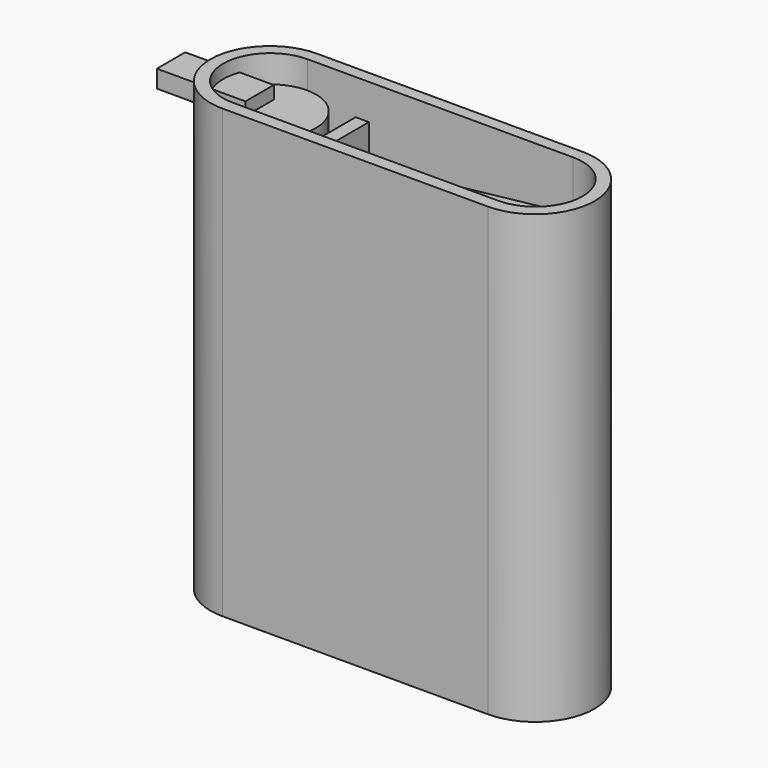
from build123d import *

# Parameters (mm, degrees)
SKETCH003_R     = 5.13266
PAD002_DEPTH    = 44.5
SKETCH004_W     = 26
SKETCH004_H     = 1.6
PAD003_DEPTH    = 46
SKETCH002_W     = 26.5
SKETCH002_H     = 1.6
PAD001_DEPTH    = 46
SKETCH006_W     = 15
SKETCH006_H     = 9
PAD005_DEPTH    = 6.2
SKETCH008_W     = 4.006802
SKETCH008_H     = 1.988987
PAD006_DEPTH    = 10
PAD_DEPTH       = 50.5
POCKET_DEPTH    = 49
SKETCH005_W     = 1.5
SKETCH005_H     = 10.6
PAD004_DEPTH    = 45
POCKET001_DEPTH = 0.1


with BuildPart() as pad002:
    # Sketch003 → Pad002 (new body)
    with BuildSketch(Plane.XY.offset(3)):
        with Locations((-28.836864, 7.153081)):
            Circle(SKETCH003_R)
    extrude(amount=PAD002_DEPTH)


with BuildPart() as pcb001:
    # Sketch004 → Pad003 (new body)
    with BuildSketch(Plane(origin=(2.5, 2.5, 1.5), x_dir=(0.981627, 0.190809, 0), z_dir=(0, 0, 1))):
        with Locations((-8.387676, 4.695807)):
            Rectangle(SKETCH004_W, SKETCH004_H)
    extrude(amount=PAD003_DEPTH)


with BuildPart() as pad005:
    # Sketch002 → Pad001 (new body)
    with BuildSketch(Plane.XY.offset(1.5)):
        with Locations((-8.444172, 4.652804)):
            Rectangle(SKETCH002_W, SKETCH002_H)
    extrude(amount=PAD001_DEPTH)

    # Sketch006 → Pad005 (new body)
    with BuildSketch(Plane(origin=(0, 5.452804, 1.5), x_dir=(-1, 0, 0), z_dir=(0, 1, 0))):
        with Locations((12.860087, 3.586113)):
            Rectangle(SKETCH006_W, SKETCH006_H)
    extrude(amount=PAD005_DEPTH)


with BuildPart() as pad006:
    # Sketch008 → Pad006 (new body)
    with BuildSketch(Plane.YZ.offset(-40)):
        with Locations((7.047933, 47.966302)):
            Rectangle(SKETCH008_W, SKETCH008_H)
    extrude(amount=PAD006_DEPTH)


with BuildPart() as pocket001:
    # Sketch → Pad (new body)
    with BuildSketch(Plane.XY):
        with BuildLine():
            ThreePointArc((-28.891959, 13.8), (-35.591959, 7.1), (-28.891959, 0.4))
            Line((-28.891959, 0.4), (1.108041, 0.4))
            ThreePointArc((1.108041, 0.4), (7.808041, 7.1), (1.108041, 13.8))
            Line((-28.891959, 13.8), (1.108041, 13.8))
        make_face()
    extrude(amount=PAD_DEPTH)

    # Sketch001 → Pocket (cut)
    with BuildSketch(Plane.XY.offset(50.5)):
        with BuildLine():
            ThreePointArc((-28.891825, 12.446886), (-34.191825, 7.146886), (-28.891825, 1.846886))
            Line((-28.891825, 1.846886), (1.108175, 1.846886))
            ThreePointArc((1.108175, 1.846886), (6.408175, 7.146886), (1.108175, 12.446886))
            Line((-28.891825, 12.446886), (1.108175, 12.446886))
        make_face()
    extrude(amount=-POCKET_DEPTH, mode=Mode.SUBTRACT)

    # Sketch005 → Pad004 (new body)
    with BuildSketch(Plane.XY.offset(1.5)):
        with Locations((-22.716125, 7.146886)):
            Rectangle(SKETCH005_W, SKETCH005_H)
    extrude(amount=PAD004_DEPTH)

    # Sketch011 → Pocket001 (cut)
    with BuildSketch(Plane.XZ.offset(-0.4)):
        Polygon((14.793986, -20.792818), (13.411034, -26.935513), (12.621883, -26.171735), (11.94296, -25.207525), (11.08545, -24.097188), (8.452741, -23.958813), (8.422468, -24.490499), (8.834792, -24.988598), (9.825957, -25.924281), (13.210079, -28.957981), (15.030163, -30.315768), (16.969824, -31.495613), (18.235936, -31.987684), (18.888622, -32.003044), (19.523693, -31.731931), (21.591777, -30.604874), (23.505606, -29.241662), (26.977621, -26.063349), (28.961779, -23.940885), (29.851076, -22.79651), (30.589569, -21.645668), (28.135459, -22.505372), (25.746597, -23.625963), (23.588796, -23.88511), (21.406931, -23.953982), (20.88194, -23.958284), (20.646882, -24.000019), (18.514561, -28.91311), (18.132936, -27.761468), (17.905202, -26.442973), (16.987348, -21.373109), (16.562578, -18.735981), (15.918144, -15.191777), align=None)
        Polygon((24.885442, -9.044156), (23.226489, -9.234893), (21.639737, -9.74272), (20.181279, -10.546771), (18.907225, -11.626168), (18.478836, -11.940664), (18.069752, -11.605503), (16.476297, -10.276901), (14.585337, -9.434502), (12.536602, -9.07988), (10.469822, -9.214593), (8.868519, -9.954583), (7.506169, -11.055596), (6.399945, -12.427805), (5.567025, -13.981367), (5.187227, -14.999311), (5.058423, -16.074702), (5.180349, -18.254911), (5.924106, -20.528477), (7.100912, -22.617368), (7.718313, -22.952134), (8.416316, -23.06212), (9.854623, -23.107228), (11.685653, -23.179563), (12.903034, -25.098662), (15.740468, -11.887011), (16.193658, -13.299948), (16.49075, -14.877858), (18.766652, -26.831701), (19.457033, -25.023303), (20.058454, -23.179563), (25.368728, -22.965416), (28.213029, -21.597066), (31.158393, -20.479002), (31.768165, -18.425168), (31.939442, -16.295144), (31.881271, -15.106143), (31.532531, -13.97897), (30.34979, -11.912878), (29.276868, -10.718805), (27.967111, -9.80201), (26.48261, -9.223474), align=None)
    extrude(amount=-POCKET001_DEPTH, mode=Mode.SUBTRACT)


solid = Compound([pad002.part, pcb001.part, pad005.part, pad006.part, pocket001.part])
